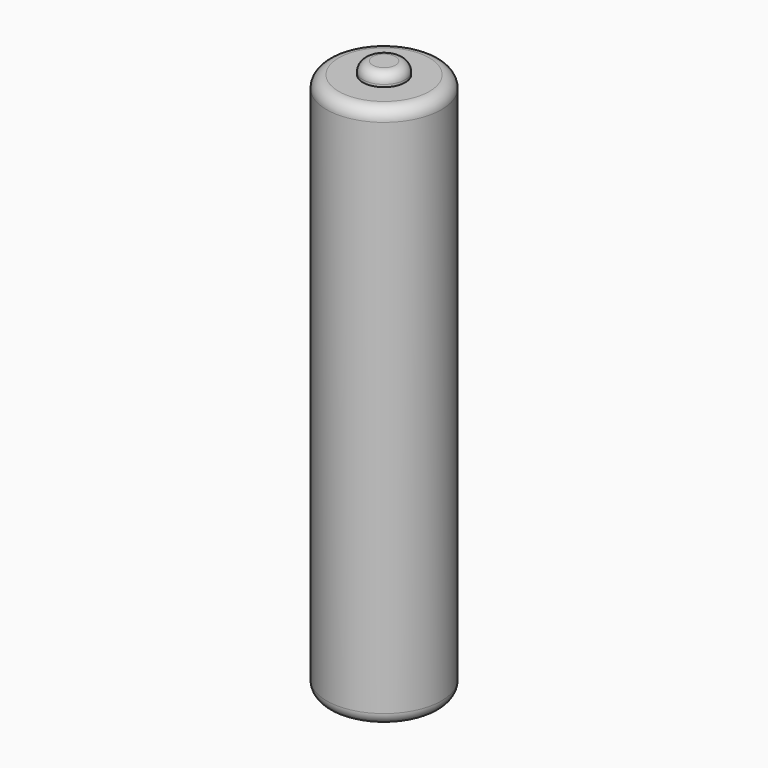
from build123d import *

# Parameters (mm, degrees)
F0_R     = 4.75
F1_DEPTH = 45
F2_R     = 1.75
F3_DEPTH = 1
F4_R     = 0.8
F5_R     = 1


with BuildPart() as f1:
    # F0 (on Top) → F1 (new body)
    with BuildSketch(Plane.XY):
        Circle(F0_R)
    extrude(amount=F1_DEPTH)

    # F2 (on face) → F3 (join)
    with BuildSketch(Plane.XY.offset(45)):
        Circle(F2_R)
    extrude(amount=F3_DEPTH)

    # F4
    f4_edges = [f1.edges().sort_by_distance(p)[0] for p in [
        (-1.75, 0, 46),
    ]]
    fillet(f4_edges, radius=F4_R)

    # F5
    f5_edges = [f1.edges().sort_by_distance(p)[0] for p in [
        (-4.75, 0, 45),
        (-4.75, 0, 0),
    ]]
    fillet(f5_edges, radius=F5_R)


solid = f1.part
